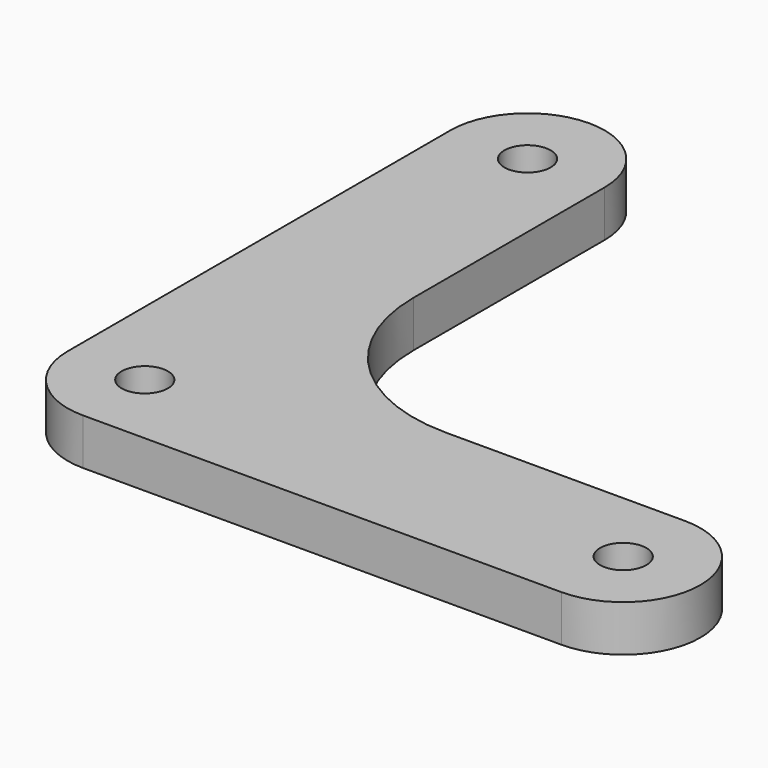
from build123d import *

# Parameters (mm, degrees)
SKETCH_R  = 1.5
PAD_DEPTH = 3
FILLET_R  = 10.5


with BuildPart() as part:
    # Sketch → Pad (new body)
    with BuildSketch(Plane.XY):
        with BuildLine():
            ThreePointArc((5, 31), (1.2e-05, 36), (-5, 31.000024))
            Line((-5, 0), (-5, 31.000024))
            ThreePointArc((-5, 0), (-3.535534, -3.535534), (0, -5))
            Line((31.000001, -5), (0, -5))
            ThreePointArc((31.000001, -5), (36, 0), (31, 5))
            Line((31, 5), (5, 5))
            Line((5, 31), (5, 5))
        make_face()
        Circle(SKETCH_R, mode=Mode.SUBTRACT)
        with Locations((0, 31)):
            Circle(SKETCH_R, mode=Mode.SUBTRACT)
        with Locations((31, 0)):
            Circle(SKETCH_R, mode=Mode.SUBTRACT)
    extrude(amount=PAD_DEPTH)

    # Fillet
    fillet_edges = [part.edges().sort_by_distance(p)[0] for p in [
        (5, 5, 1.5),
    ]]
    fillet(fillet_edges, radius=FILLET_R)


solid = part.part
